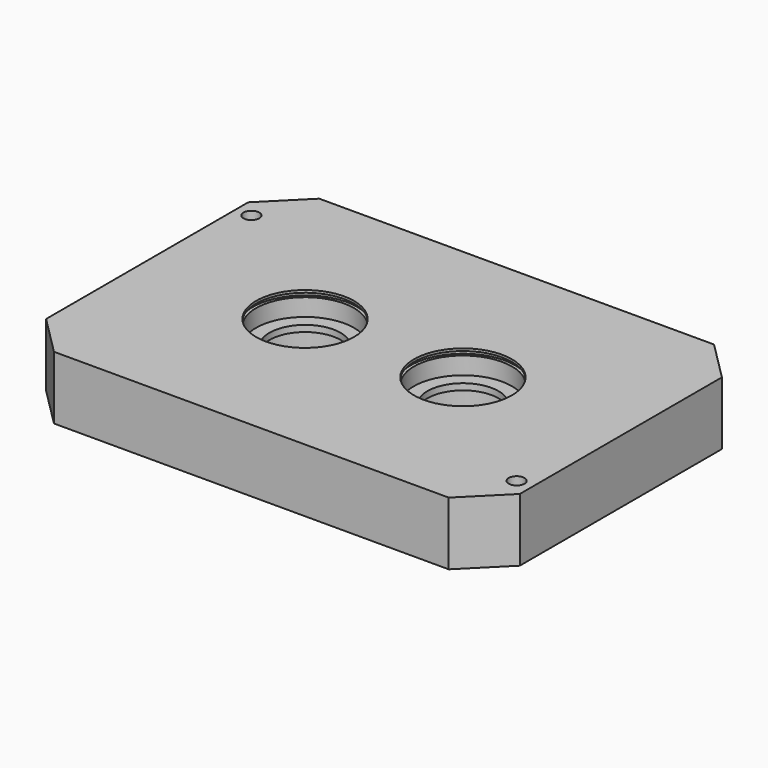
from build123d import *

# Parameters (mm, degrees)
F0_W      = 300
F0_H      = 210
F0_R      = 22.5
F1_DEPTH  = 40
F2_R      = 31
F2_R_2    = 22.5
F3_DEPTH  = 15
F4_R      = 36
F4_R_2    = 22.5
F5_DEPTH  = 21
F7_R      = 33
F8_DEPTH  = 2.5
F9_R      = 5
F10_DEPTH = 40
F11_SIZE  = 25
F12_R     = 5
F13_DEPTH = 12


with BuildPart() as f1:
    # F0 (on Top) → F1 (new body)
    with BuildSketch(Plane.XY):
        Rectangle(F0_W, F0_H)
        with Locations((-50, 0)):
            Circle(F0_R, mode=Mode.SUBTRACT)
        with Locations((50, 0)):
            Circle(F0_R, mode=Mode.SUBTRACT)
    extrude(amount=F1_DEPTH)

    # F2 (on face) → F3 (cut)
    with BuildSketch(Plane.XY.offset(40)):
        with Locations((-50, 0)):
            Circle(F2_R)
        with Locations((-50, 0)):
            Circle(F2_R_2, mode=Mode.SUBTRACT)
        with Locations((50, 0)):
            Circle(F2_R)
        with Locations((50, 0)):
            Circle(F2_R_2, mode=Mode.SUBTRACT)
    extrude(amount=-F3_DEPTH, mode=Mode.SUBTRACT)

    # F4 (on face) → F5 (cut)
    with BuildSketch(Plane(origin=(0, 0, 0), x_dir=(1, 0, 0), z_dir=(0, 0, -1))):
        with Locations((-50, 0)):
            Circle(F4_R)
        with Locations((-50, 0)):
            Circle(F4_R_2, mode=Mode.SUBTRACT)
        with Locations((50, 0)):
            Circle(F4_R)
        with Locations((50, 0)):
            Circle(F4_R_2, mode=Mode.SUBTRACT)
    extrude(amount=-F5_DEPTH, mode=Mode.SUBTRACT)

    # F7 (on offset) → F8 (cut)
    with BuildSketch(Plane.XY.offset(38.5)):
        with Locations((-50, 0)):
            Circle(F7_R)
        with Locations((50, 0)):
            Circle(F7_R)
    extrude(amount=-F8_DEPTH, mode=Mode.SUBTRACT)

    # F9 (on face) → F10 (cut)
    with BuildSketch(Plane.XY.offset(40)):
        with Locations((-140, 70)):
            Circle(F9_R)
        with Locations((140, -70)):
            Circle(F9_R)
    extrude(amount=-F10_DEPTH, mode=Mode.SUBTRACT)

    # F11
    f11_edges = [f1.edges().sort_by_distance(p)[0] for p in [
        (150, -105, 20),
        (-150, -105, 20),
        (150, 105, 20),
        (-150, 105, 20),
    ]]
    chamfer(f11_edges, length=F11_SIZE)

    # F12 (on face) → F13 (cut)
    with BuildSketch(Plane(origin=(0, 0, 0), x_dir=(1, 0, 0), z_dir=(0, 0, -1))):
        with Locations((120, 65)):
            Circle(F12_R)
        with Locations((-120, -65)):
            Circle(F12_R)
    extrude(amount=-F13_DEPTH, mode=Mode.SUBTRACT)


solid = f1.part
